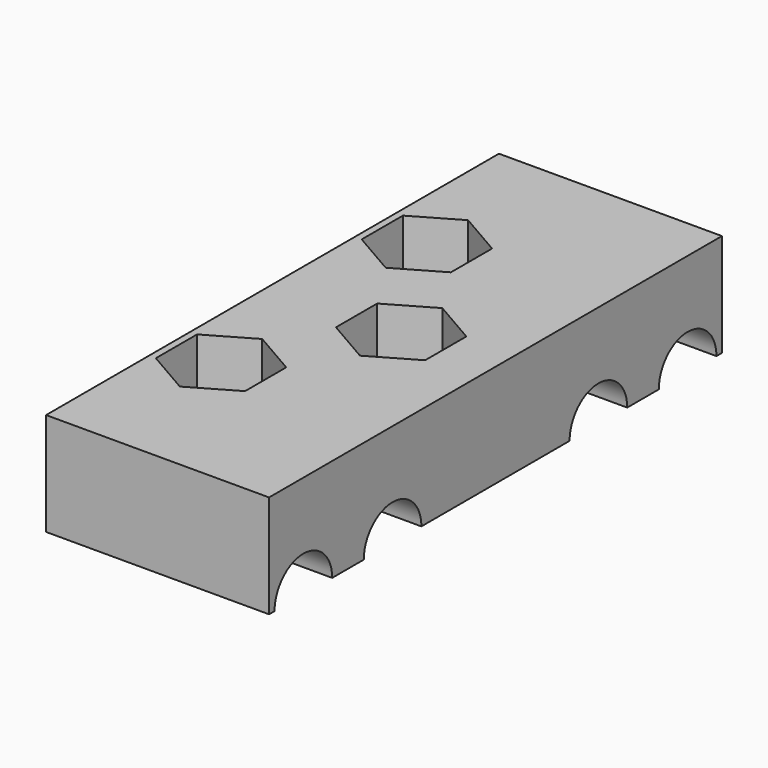
from build123d import *

# Parameters (mm, degrees)
SKETCH_W        = 26
SKETCH_H        = 66
PAD_DEPTH       = 12
SKETCH001_R     = 4.2
POCKET_DEPTH    = 26.001
POCKET001_DEPTH = 4.5
SKETCH003_R     = 3.2
POCKET002_DEPTH = 12.001
SKETCH004_R     = 4.2
POCKET003_DEPTH = 7
POCKET004_DEPTH = 5.5
POCKET005_DEPTH = 6


with BuildPart() as part:
    # Sketch → Pad (new body)
    with BuildSketch(Plane.XY):
        with Locations((-13, 0)):
            Rectangle(SKETCH_W, SKETCH_H)
    extrude(amount=PAD_DEPTH)

    # Sketch001 (on Face4 of Pad) → Pocket (cut, through all)
    with BuildSketch(Plane(origin=(-26, 0, 0), x_dir=(0, -1, 0), z_dir=(-1, 0, 0))):
        with Locations((-28, 0)):
            Circle(SKETCH001_R)
        with Locations((28, 0)):
            Circle(SKETCH001_R)
    extrude(amount=-POCKET_DEPTH, mode=Mode.SUBTRACT)

    # Sketch002 (on Face8 of Pocket) → Pocket001 (cut)
    with BuildSketch(Plane(origin=(0, 0, 0), x_dir=(1, 0, 0), z_dir=(0, 0, -1))):
        with BuildLine():
            ThreePointArc((-11, -9), (-2, 0), (-11, 9))
            Line((-11, 9), (-26, 9))
            Line((-26, 9), (-26, -9))
            Line((-26, -9), (-11, -9))
        make_face()
    extrude(amount=-POCKET001_DEPTH, mode=Mode.SUBTRACT)

    # Sketch003 (on Face8 of Pocket001) → Pocket002 (cut, through all)
    with BuildSketch(Plane(origin=(0, 0, 0), x_dir=(1, 0, 0), z_dir=(0, 0, -1))):
        with Locations((-11, 0)):
            Circle(SKETCH003_R)
        with Locations((-20, 15)):
            Circle(SKETCH003_R)
        with Locations((-20, -15)):
            Circle(SKETCH003_R)
    extrude(amount=-POCKET002_DEPTH, mode=Mode.SUBTRACT)

    # Sketch004 (on Face3 of Pocket002) → Pocket003 (cut)
    with BuildSketch(Plane.YZ):
        with Locations((-15, 0)):
            Circle(SKETCH004_R)
        with Locations((15, 0)):
            Circle(SKETCH004_R)
    extrude(amount=-POCKET003_DEPTH, mode=Mode.SUBTRACT)

    # Sketch005 (on Face20 of Pocket003) → Pocket004 (cut)
    with BuildSketch(Plane.YZ.offset(-7)):
        Polygon((-9.8, -3.002221), (-9.8, 3.002221), (-15, 6.004443), (-20.2, 3.002221), (-20.2, -3.002221), (-15, -6.004443), align=None)
        Polygon((15, -6.004443), (20.2, -3.002221), (20.2, 3.002221), (15, 6.004443), (9.8, 3.002221), (9.8, -3.002221), align=None)
    extrude(amount=-POCKET004_DEPTH, mode=Mode.SUBTRACT)

    # Sketch006 (on Face5 of Pocket004) → Pocket005 (cut)
    with BuildSketch(Plane.XY.offset(12)):
        Polygon((-14.8, 11.997779), (-14.8, 18.002221), (-20, 21.004443), (-25.2, 18.002221), (-25.2, 11.997779), (-20, 8.995557), align=None)
        Polygon((-14.8, -18.002221), (-14.8, -11.997779), (-20, -8.995557), (-25.2, -11.997779), (-25.2, -18.002221), (-20, -21.004443), align=None)
        Polygon((-5.8, -3.002221), (-5.8, 3.002221), (-11, 6.004443), (-16.2, 3.002221), (-16.2, -3.002221), (-11, -6.004443), align=None)
    extrude(amount=-POCKET005_DEPTH, mode=Mode.SUBTRACT)


solid = part.part
